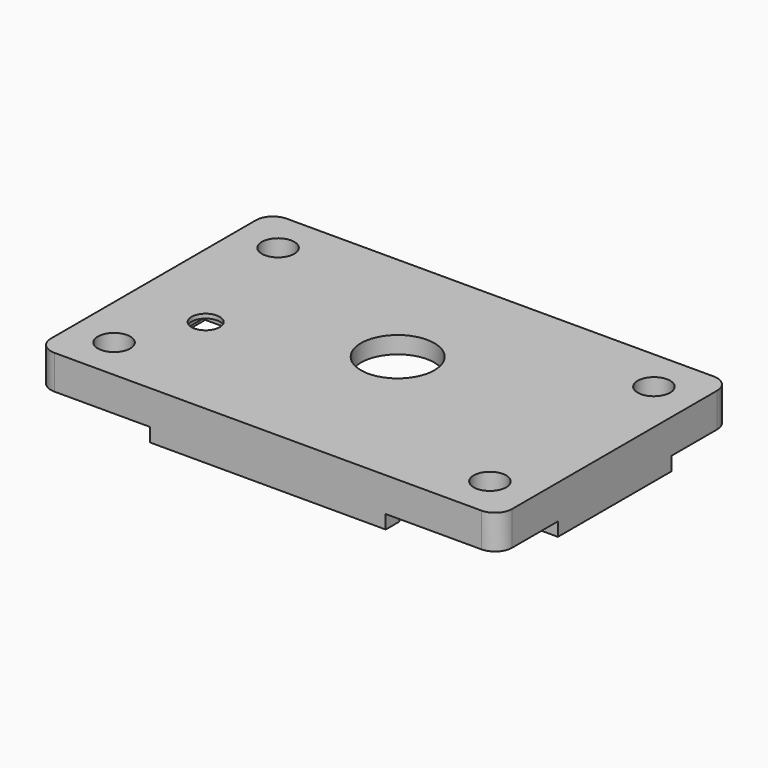
from build123d import *

# Parameters (mm, degrees)
SKETCH010_R     = 1.1
PAD006_DEPTH    = 2
SKETCH011_W     = 2
SKETCH011_H     = 16.6
SKETCH011_W_2   = 27.6
SKETCH011_H_2   = 2
PAD007_DEPTH    = 1.6
SKETCH012_R     = 1.9
SKETCH012_R_2   = 4.3
SKETCH012_R_3   = 1.65
PAD008_DEPTH    = 2
SKETCH013_W     = 6
SKETCH013_H     = 6.6
SKETCH013_W_2   = 3.5
SKETCH013_H_2   = 4
POCKET002_DEPTH = 1.5


with BuildPart() as part:
    # Sketch010 → Pad006 (new body)
    with BuildSketch(Plane.XY.offset(4.8)):
        with BuildLine():
            Line((-25, -17), (25, -17))
            ThreePointArc((25, -17), (26.414214, -16.414214), (27, -15))
            Line((27, -15), (27, 15))
            ThreePointArc((27, 15), (26.414214, 16.414214), (25, 17))
            Line((25, 17), (-25, 17))
            ThreePointArc((-25, 17), (-26.414214, 16.414214), (-27, 15))
            Line((-27, 15), (-27, -15))
            ThreePointArc((-27, -15), (-26.414214, -16.414214), (-25, -17))
        make_face()
        with Locations((-22, 12)):
            Circle(SKETCH010_R, mode=Mode.SUBTRACT)
        with Locations((22, 12)):
            Circle(SKETCH010_R, mode=Mode.SUBTRACT)
        with Locations((-22, -12)):
            Circle(SKETCH010_R, mode=Mode.SUBTRACT)
        with Locations((22, -12)):
            Circle(SKETCH010_R, mode=Mode.SUBTRACT)
        with BuildLine():
            Line((-18.5, -15), (18.5, -15))
            ThreePointArc((25, -8.5), (20.403806, -10.403806), (18.5, -15))
            Line((25, -8.5), (25, 8.5))
            ThreePointArc((18.5, 15), (20.403806, 10.403806), (25, 8.5))
            Line((18.5, 15), (-18.5, 15))
            ThreePointArc((-25, 8.5), (-20.403806, 10.403806), (-18.5, 15))
            Line((-25, 8.5), (-25, -8.5))
            ThreePointArc((-18.5, -15), (-20.403806, -10.403806), (-25, -8.5))
        make_face(mode=Mode.SUBTRACT)
    extrude(amount=PAD006_DEPTH)

    # Sketch011 (on Face21 of Pad006) → Pad007 (join)
    with BuildSketch(Plane(origin=(0, 0, 4.8), x_dir=(1, 0, 0), z_dir=(0, 0, -1))):
        with Locations((-26, 0)):
            Rectangle(SKETCH011_W, SKETCH011_H)
        with Locations((26, 0)):
            Rectangle(SKETCH011_W, SKETCH011_H)
        with Locations((0, 16)):
            Rectangle(SKETCH011_W_2, SKETCH011_H_2)
    extrude(amount=PAD007_DEPTH)

    # Sketch012 (on Face3 of Pad007) → Pad008 (join)
    with BuildSketch(Plane.XY.offset(6.8)):
        with BuildLine():
            Line((-25, -17), (25, -17))
            ThreePointArc((25, -17), (26.414214, -16.414214), (27, -15))
            Line((27, -15), (27, 15))
            ThreePointArc((27, 15), (26.414214, 16.414214), (25, 17))
            Line((25, 17), (-25, 17))
            ThreePointArc((-25, 17), (-26.414214, 16.414214), (-27, 15))
            Line((-27, 15), (-27, -15))
            ThreePointArc((-27, -15), (-26.414214, -16.414214), (-25, -17))
        make_face()
        with Locations((-22, 12)):
            Circle(SKETCH012_R, mode=Mode.SUBTRACT)
        with Locations((22, 12)):
            Circle(SKETCH012_R, mode=Mode.SUBTRACT)
        with Locations((-22, -12)):
            Circle(SKETCH012_R, mode=Mode.SUBTRACT)
        with Locations((22, -12)):
            Circle(SKETCH012_R, mode=Mode.SUBTRACT)
        with Locations((0, 2)):
            Circle(SKETCH012_R_2, mode=Mode.SUBTRACT)
        with Locations((-18, -3.6)):
            Circle(SKETCH012_R_3, mode=Mode.SUBTRACT)
    extrude(amount=PAD008_DEPTH)

    # Sketch013 (on Face24 of Pad008) → Pocket002 (cut)
    with BuildSketch(Plane(origin=(0, 0, 6.8), x_dir=(1, 0, 0), z_dir=(0, 0, -1))):
        with Locations((-18, 3.6)):
            Rectangle(SKETCH013_W, SKETCH013_H)
        with Locations((-7, -5)):
            Rectangle(SKETCH013_W_2, SKETCH013_H_2)
        with Locations((-7, 1)):
            Rectangle(SKETCH013_W_2, SKETCH013_H_2)
        with Locations((7, -5)):
            Rectangle(SKETCH013_W_2, SKETCH013_H_2)
        with Locations((7, 1)):
            Rectangle(SKETCH013_W_2, SKETCH013_H_2)
        with Locations((-15, 10)):
            Rectangle(SKETCH013_W_2, SKETCH013_H_2)
    extrude(amount=-POCKET002_DEPTH, mode=Mode.SUBTRACT)


solid = part.part
